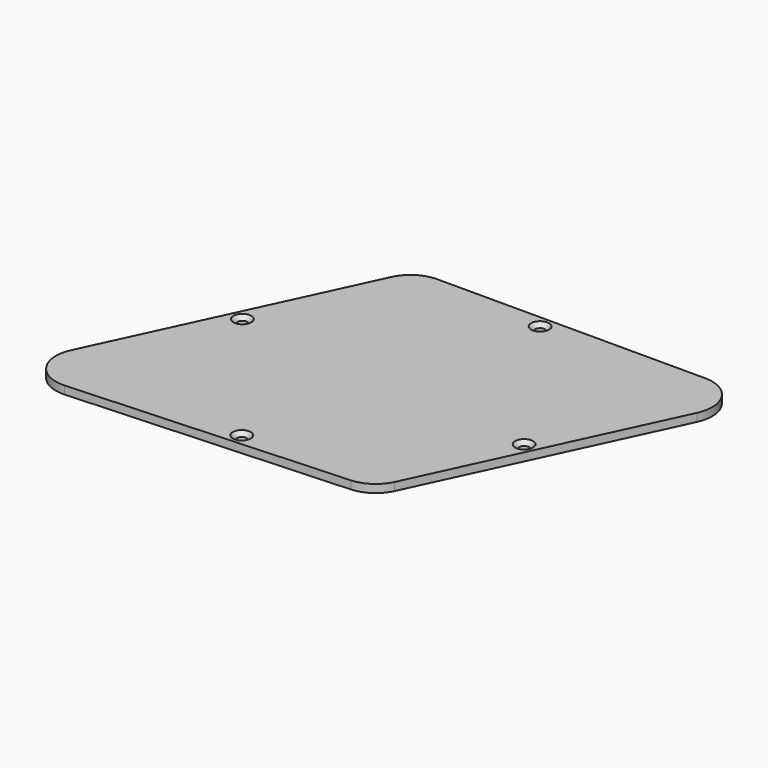
from build123d import *

# Parameters (mm, degrees)
F1_DEPTH       = 2.3
F3_D           = 2.8
F3_CSINK_D     = 5.1
F3_CSINK_ANGLE = 90


with BuildPart() as f1:
    # F0 (on Top) → F1 (new body)
    with BuildSketch(Plane.XY):
        with BuildLine():
            Line((34.772621, 87.324873), (0.936922, 14.763984))
            ThreePointArc((0.936922, 14.763984), (1.709624, 4.945872), (10.52336, 0.551506))
            Line((10.52336, 0.551506), (89.218121, 4.675724))
            ThreePointArc((89.218121, 4.675724), (94.033262, 6.286847), (97.330853, 10.147831))
            Line((97.330853, 10.147831), (129.243078, 78.583817))
            ThreePointArc((129.243078, 78.583817), (128.613914, 88.182996), (120.18, 92.81))
            Line((120.18, 92.81), (43.382545, 92.81))
            ThreePointArc((43.382545, 92.81), (38.278198, 91.322219), (34.772621, 87.324873))
        make_face()
    extrude(amount=F1_DEPTH)

    # F3 (through all)
    with Locations(Plane.XY.offset(2.3)):
        with Locations((21.462723, 50.5), (108.555095, 42.5), (75.68, 89.31), (56.5, 6.465843)):
            CounterSinkHole(F3_D / 2, F3_CSINK_D / 2, counter_sink_angle=F3_CSINK_ANGLE)


solid = f1.part
